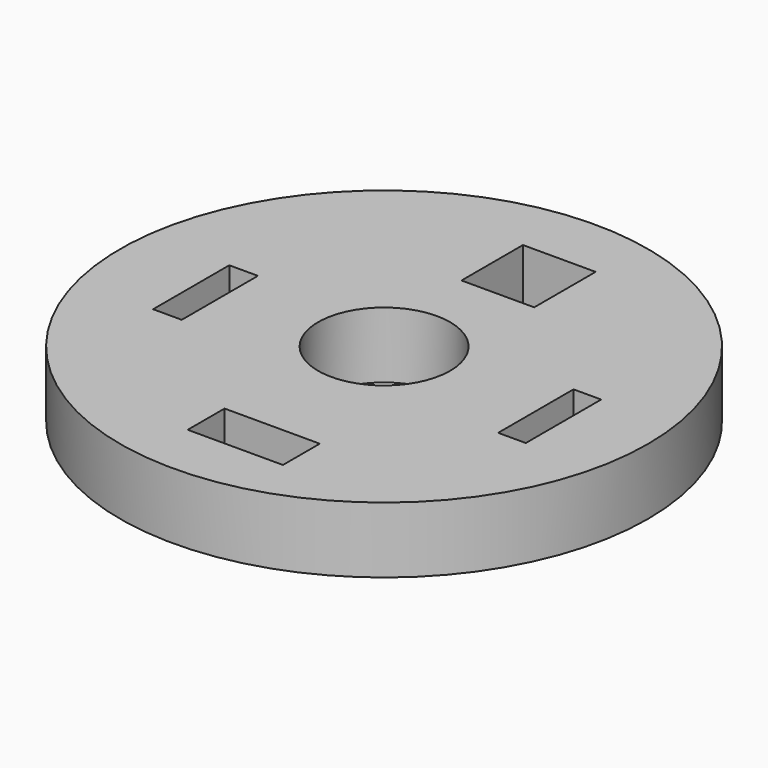
from build123d import *

# Parameters (mm, degrees)
F0_R     = 50.8
F0_W     = 5.51793
F0_H     = 18.327414
F0_R_2   = 12.7
F0_W_2   = 18.327416
F0_H_2   = 8.868104
F0_W_3   = 5.320862
F0_H_3   = 18.130345
F0_W_4   = 13.991896
F0_H_4   = 14.780173
F1_DEPTH = 12.7


with BuildPart() as f1:
    # F0 (on Top) → F1 (new body)
    with BuildSketch(Plane.XY):
        Circle(F0_R)
        with Locations((-31.925172, -3.054569)):
            Rectangle(F0_W, F0_H, mode=Mode.SUBTRACT)
        Circle(F0_R_2, mode=Mode.SUBTRACT)
        with Locations((3.05457, -35.176811)):
            Rectangle(F0_W_2, F0_H_2, mode=Mode.SUBTRACT)
        with Locations((33.60026, -2.167758)):
            Rectangle(F0_W_3, F0_H_3, mode=Mode.SUBTRACT)
        with Locations((2.660431, 31.432501)):
            Rectangle(F0_W_4, F0_H_4, mode=Mode.SUBTRACT)
    extrude(amount=F1_DEPTH)


solid = f1.part
